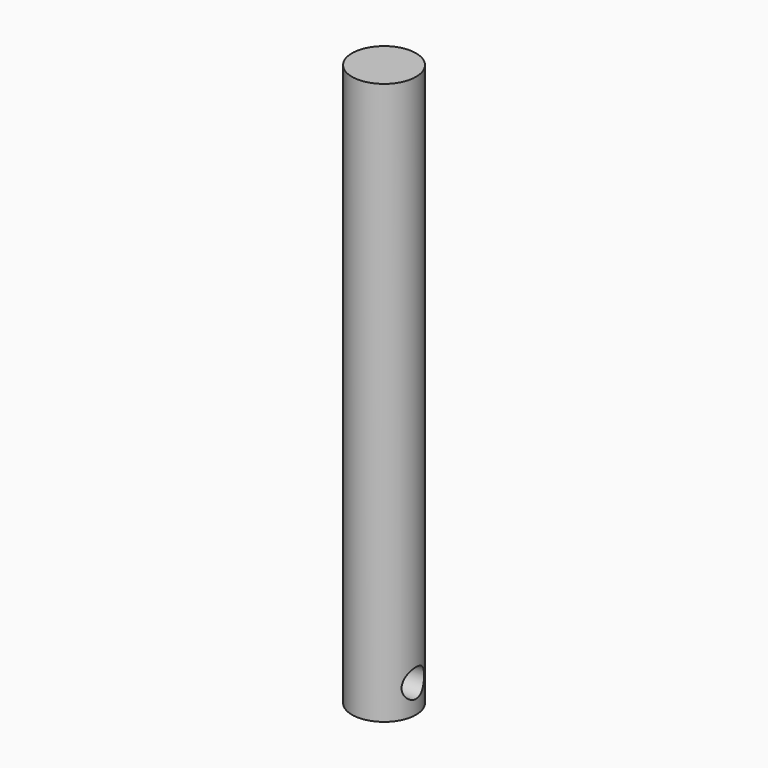
from build123d import *

# Parameters (mm, degrees)
F0_R          = 7.239
F1_DEPTH      = 127
F2_R          = 3.175
F3_DEPTH      = 25.4
F3_DEPTH_BACK = 25.4


with BuildPart() as f1:
    # F0 (on Top) → F1 (new body)
    with BuildSketch(Plane.XY):
        Circle(F0_R)
    extrude(amount=F1_DEPTH)

    # F2 (on Right) → F3 (cut, two sides)
    with BuildSketch(Plane.YZ) as f3_sk:
        with Locations((0, 6.35)):
            Circle(F2_R)
    extrude(amount=-F3_DEPTH, mode=Mode.SUBTRACT)
    extrude(f3_sk.sketch, amount=F3_DEPTH_BACK, mode=Mode.SUBTRACT)


solid = f1.part
